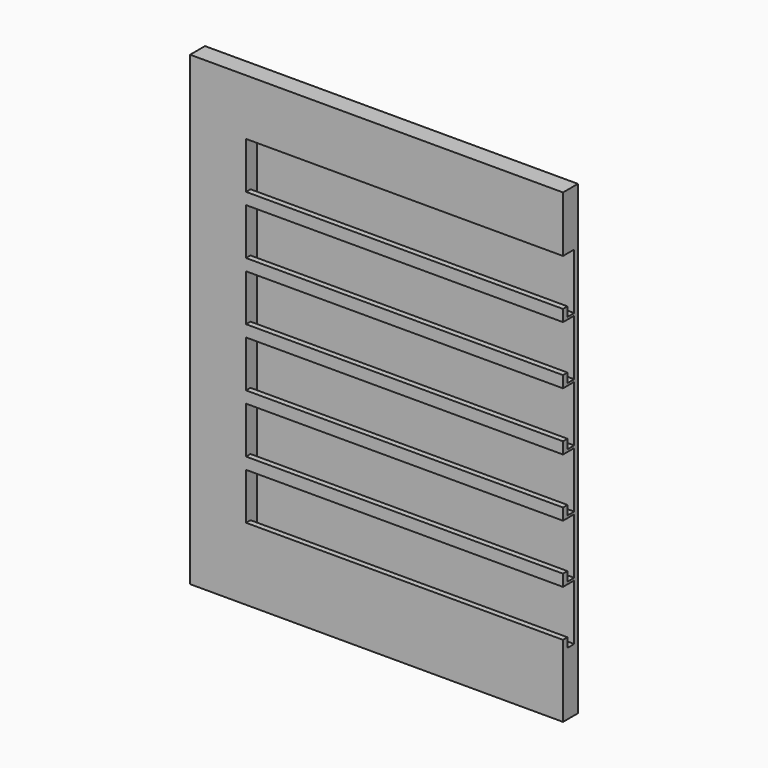
from build123d import *

# Parameters (mm, degrees)
F0_W     = 800
F0_H     = 1000
F1_DEPTH = 10
F2_W     = 680
F2_H     = 120
F2_W_2   = 120
F2_H_2   = 880
F3_DEPTH = 30
F4_W     = 30
F4_H     = 25
F4_H_2   = 130
F5_DEPTH = 680
F6_W     = 18
F6_H     = 20
F7_DEPTH = 680


with BuildPart() as f1:
    # F0 (on Front) → F1 (new body)
    with BuildSketch(Plane.XZ):
        Rectangle(F0_W, F0_H)
    extrude(amount=F1_DEPTH)

    # F2 (on face) → F3 (join)
    with BuildSketch(Plane.XZ.offset(10)):
        with Locations((60, 440)):
            Rectangle(F2_W, F2_H)
        with Locations((-340, -60)):
            Rectangle(F2_W_2, F2_H_2)
        with Locations((-340, 440)):
            Rectangle(F2_W_2, F2_H)
    extrude(amount=F3_DEPTH)

    # F4 (on face) → F5 (join)
    with BuildSketch(Plane.YZ.offset(-280)):
        with Locations((-25, 267.5)):
            Rectangle(F4_W, F4_H)
        with Locations((-25, 142.5)):
            Rectangle(F4_W, F4_H)
        with Locations((-25, 17.5)):
            Rectangle(F4_W, F4_H)
        with Locations((-25, -107.5)):
            Rectangle(F4_W, F4_H)
        with Locations((-25, -232.5)):
            Rectangle(F4_W, F4_H)
        with Locations((-25, -357.5)):
            Rectangle(F4_W, F4_H)
        with Locations((-25, -435)):
            Rectangle(F4_W, F4_H_2)
    extrude(amount=F5_DEPTH)

    # F6 (on face) → F7 (cut)
    with BuildSketch(Plane.YZ.offset(400)):
        with Locations((-19, 270)):
            Rectangle(F6_W, F6_H)
        with Locations((-19, 145)):
            Rectangle(F6_W, F6_H)
        with Locations((-19, 20)):
            Rectangle(F6_W, F6_H)
        with Locations((-19, -105)):
            Rectangle(F6_W, F6_H)
        with Locations((-19, -230)):
            Rectangle(F6_W, F6_H)
        with Locations((-19, -355)):
            Rectangle(F6_W, F6_H)
    extrude(amount=-F7_DEPTH, mode=Mode.SUBTRACT)


solid = f1.part
